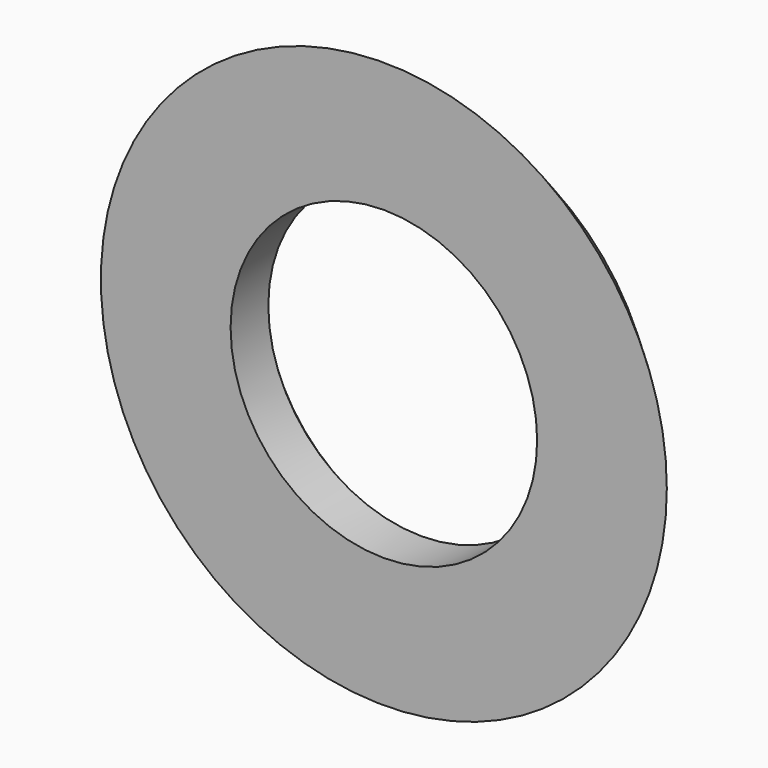
from build123d import *

# Parameters (mm, degrees)
CHAMFER_SIZE = 1


with BuildPart() as part:
    # Sketch → Revolution (revolve)
    with BuildSketch(Plane.XY):
        Polygon((24, 0), (19, 5), (13, 5), (13, 0), align=None)
    revolve(axis=Axis((0, 0, 0), (0, 1, 0)))

    # Chamfer
    chamfer_edges = [part.edges().sort_by_distance(p)[0] for p in [
        (-13, 5, 0),
    ]]
    chamfer(chamfer_edges, length=CHAMFER_SIZE)


solid = part.part
